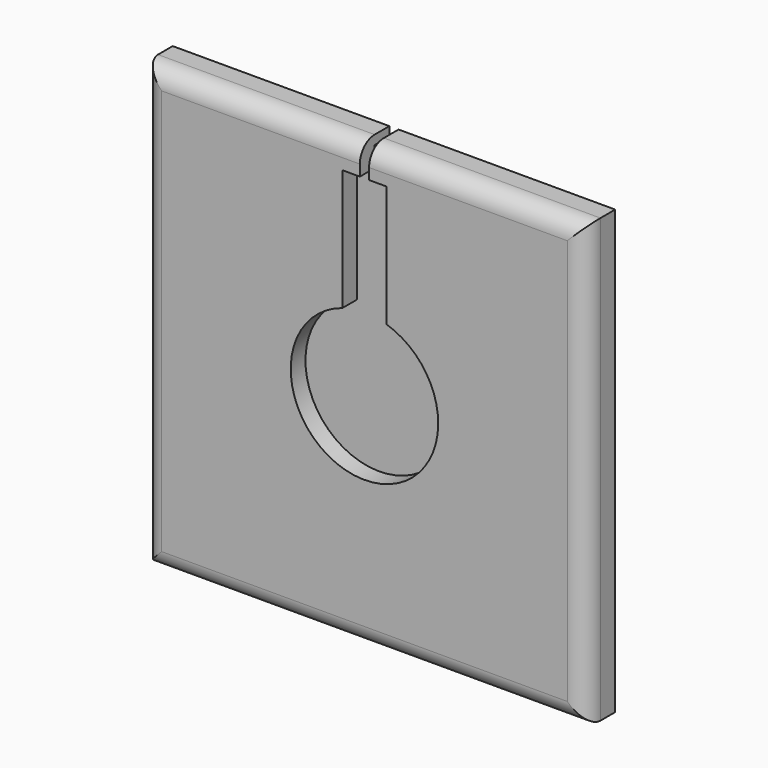
from build123d import *

# Parameters (mm, degrees)
F1_DEPTH = 5
F2_DEPTH = 10
F3_R     = 5


with BuildPart() as f1:
    # F0 (on Front) → F1 (new body)
    with BuildSketch(Plane.XZ):
        with BuildLine():
            Line((54, 60), (54, 79.078784))
            ThreePointArc((54, 79.078784), (48.16784, 43.875485), (80, 60))
            ThreePointArc((80, 60), (76.124515, 71.83216), (66, 79.078784))
            Line((66, 79.078784), (66, 60))
            Line((66, 60), (60, 60))
            Line((60, 60), (54, 60))
        make_face()
        with BuildLine():
            ThreePointArc((60, 80), (56.964846, 79.768355), (54, 79.078784))
            Line((54, 79.078784), (54, 60))
            Line((54, 60), (60, 60))
            Line((60, 60), (66, 60))
            Line((66, 60), (66, 79.078784))
            ThreePointArc((66, 79.078784), (63.035154, 79.768355), (60, 80))
        make_face()
        with BuildLine():
            Line((60, 80), (54, 80))
            Line((54, 80), (54, 79.078784))
            ThreePointArc((54, 79.078784), (56.964846, 79.768355), (60, 80))
        make_face()
        with BuildLine():
            Line((66, 79.078784), (66, 80))
            Line((66, 80), (60, 80))
            ThreePointArc((60, 80), (63.035154, 79.768355), (66, 79.078784))
        make_face()
        Polygon((58.75, 112), (54, 112), (54, 80), (60, 80), (66, 80), (66, 112), (61.25, 112), (61.25, 117.5), (58.75, 117.5), align=None)
    extrude(amount=F1_DEPTH)

    # F0 (on Front) → F2 (join)
    with BuildSketch(Plane.XZ):
        with BuildLine():
            Line((0, 120), (0, 0))
            Line((0, 0), (120, 0))
            Line((120, 0), (120, 120))
            Line((120, 120), (66, 120))
            Line((66, 120), (66, 112))
            Line((66, 112), (66, 80))
            Line((66, 80), (66, 79.078784))
            ThreePointArc((66, 79.078784), (76.124515, 71.83216), (80, 60))
            ThreePointArc((80, 60), (48.16784, 43.875485), (54, 79.078784))
            Line((54, 79.078784), (54, 80))
            Line((54, 80), (54, 112))
            Line((54, 112), (54, 120))
            Line((54, 120), (0, 120))
        make_face()
        Polygon((58.75, 120), (54, 120), (54, 112), (58.75, 112), (58.75, 117.5), align=None)
        Polygon((66, 112), (66, 120), (61.25, 120), (61.25, 117.5), (61.25, 112), align=None)
    extrude(amount=F2_DEPTH)

    # F3
    f3_edges = [f1.edges().sort_by_distance(p)[0] for p in [
        (0, -10, 60),
        (60, -10, 0),
        (120, -10, 60),
        (90.625, -10, 120),
        (29.375, -10, 120),
    ]]
    fillet(f3_edges, radius=F3_R)


solid = f1.part
